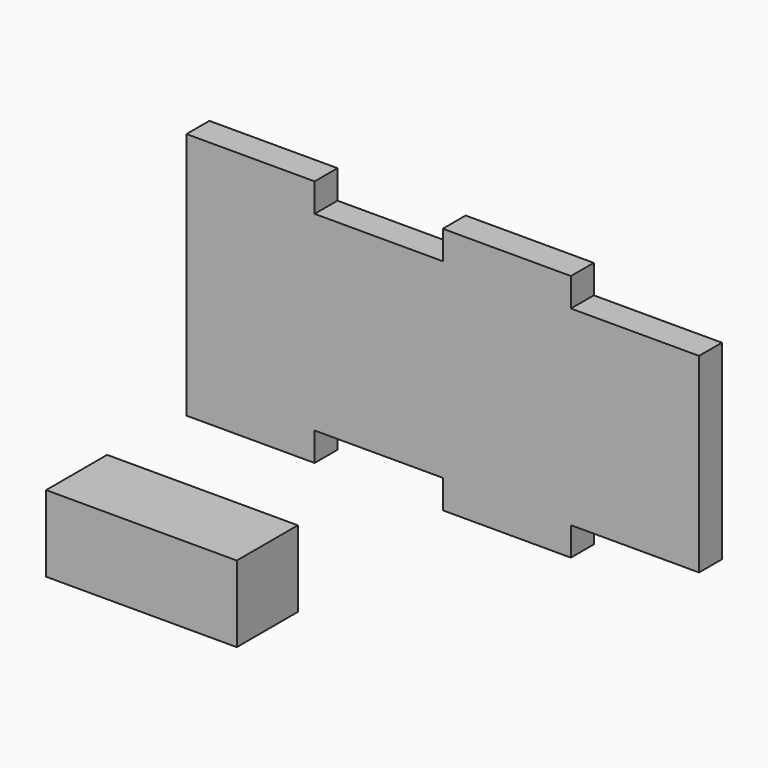
from build123d import *

# Parameters (mm, degrees)
F1_DEPTH = 9.525
F0_W     = 42.66565
F0_H     = 9.525
F2_DEPTH = 9.525
F3_W     = 63.5
F3_H     = 25.4
F4_DEPTH = 25.4


with BuildPart() as f1:
    # F0 (on Front) → F1 (new body)
    with BuildSketch(Plane.XZ):
        Polygon((-76.3369487221, 76.8050001446), (-119.0025987221, 76.8050001446), (-119.0025987221, 13.3050001446), (-76.3369487221, 13.3050001446), (-33.6712987221, 13.3050001446), (8.9943512779, 13.3050001446), (51.6600012779, 13.3050001446), (51.6600012779, 76.8050001446), (8.9943512779, 76.8050001446), (-33.6712987221, 76.8050001446), align=None)
    extrude(amount=F1_DEPTH)

    # F0 (on Front) → F2 (join)
    with BuildSketch(Plane.XZ):
        with Locations((-97.6697737221, 8.5425001446)):
            Rectangle(F0_W, F0_H)
        with Locations((-12.3384737221, 8.5425001446)):
            Rectangle(F0_W, F0_H)
        with Locations((-97.6697737221, 81.5675001446)):
            Rectangle(F0_W, F0_H)
        with Locations((-12.3384737221, 81.5675001446)):
            Rectangle(F0_W, F0_H)
    extrude(amount=F2_DEPTH)


with BuildPart() as f4:
    # F3 (on Front) → F4 (new body)
    with BuildSketch(Plane.XZ):
        with Locations((-121.3036839962, -35.3525307357)):
            Rectangle(F3_W, F3_H)
    extrude(amount=F4_DEPTH)


solid = Compound([f1.part, f4.part])
